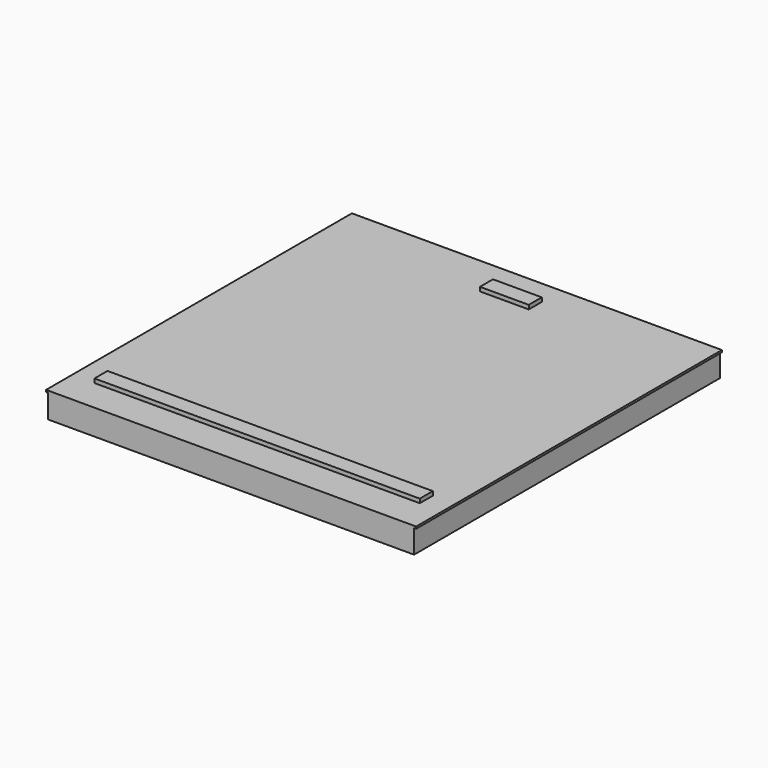
from build123d import *

# Parameters (mm, degrees)
F0_W     = 571.5
F0_H     = 596.9
F1_DEPTH = 36.576
F2_W     = 577.85
F2_H     = 596.9
F3_DEPTH = 3.175
F4_W     = 508
F4_H     = 25.4
F4_W_2   = 76.2
F5_DEPTH = 6.35


with BuildPart() as f1:
    # F0 (on Top) → F1 (new body)
    with BuildSketch(Plane.XY):
        Rectangle(F0_W, F0_H)
    extrude(amount=F1_DEPTH)

    # F2 (on face) → F3 (join)
    with BuildSketch(Plane.XY.offset(36.576)):
        Rectangle(F2_W, F2_H)
    extrude(amount=F3_DEPTH)

    # F4 (on face) → F5 (join)
    with BuildSketch(Plane.XY.offset(39.751)):
        with Locations((0, -234.95)):
            Rectangle(F4_W, F4_H)
        with Locations((0, 247.65)):
            Rectangle(F4_W_2, F4_H)
    extrude(amount=F5_DEPTH)


solid = f1.part
